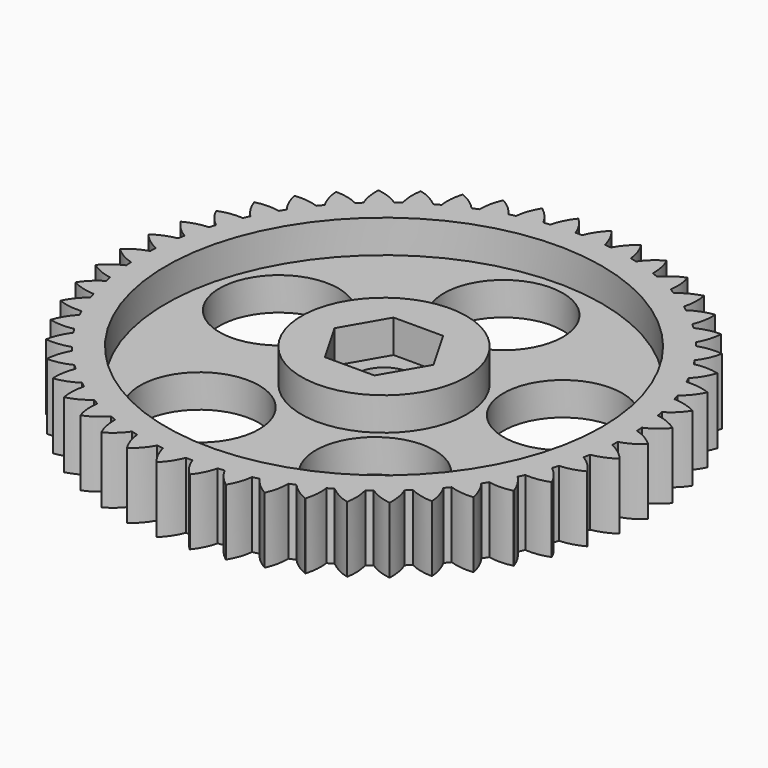
from build123d import *

# Parameters (mm, degrees)
F0_R      = 40
F1_DEPTH  = 5
F2_R      = 40
F2_R_2    = 33
F3_DEPTH  = 5
F4_R      = 4.25
F5_DEPTH  = 5
F6_R      = 12.5
F7_DEPTH  = 5
F8_R      = 9
F9_DEPTH  = 5
F11_DEPTH = 10
F12_COUNT = 50


with BuildPart() as f1:
    # F0 (on Top) → F1 (new body)
    with BuildSketch(Plane.XY):
        Circle(F0_R)
    extrude(amount=F1_DEPTH)

    # F2 (on face) → F3 (join)
    with BuildSketch(Plane.XY.offset(5)):
        Circle(F2_R)
        Circle(F2_R_2, mode=Mode.SUBTRACT)
    extrude(amount=F3_DEPTH)

    # F4 (on face) → F5 (cut, through all)
    with BuildSketch(Plane.XY.offset(5)):
        Circle(F4_R)
    extrude(amount=-F5_DEPTH, mode=Mode.SUBTRACT)

    # F6 (on face) → F7 (join)
    with BuildSketch(Plane.XY.offset(5)):
        Circle(F6_R)
        Polygon((-3.7527767497, -6.5), (-7.5055534995, 0), (-3.7527767497, 6.5), (3.7527767497, 6.5), (7.5055534995, 0), (3.7527767497, -6.5), align=None, mode=Mode.SUBTRACT)
    extrude(amount=F7_DEPTH)

    # F8 (on face) → F9 (cut, through all)
    with BuildSketch(Plane.XY.offset(5)):
        with Locations((0, 22.6054340601)):
            Circle(F8_R)
        with Locations((-21.4990453665, 6.9854632898)):
            Circle(F8_R)
        with Locations((-13.2871407622, -18.2881803198)):
            Circle(F8_R)
        with Locations((13.2871407622, -18.2881803198)):
            Circle(F8_R)
        with Locations((21.4990453665, 6.9854632898)):
            Circle(F8_R)
    extrude(amount=-F9_DEPTH, mode=Mode.SUBTRACT)

    # F10 (on face) → F11 (cut, through all)
    with BuildSketch(Plane.XY.offset(10)):
        with BuildLine():
            ThreePointArc((0.5, 36.8966123106), (1.3263189469, 38.5240288124), (2.5, 39.9217985567))
            ThreePointArc((2.5, 39.9217985567), (0, 40), (-2.5, 39.9217985567))
            ThreePointArc((-2.5, 39.9217985567), (-1.3263189469, 38.5240288124), (-0.5, 36.8966123106))
            ThreePointArc((-0.5, 36.8966123106), (0, 36.9), (0.5, 36.8966123106))
        make_face()
    f11 = extrude(amount=-F11_DEPTH, mode=Mode.SUBTRACT)

    # F12: F11 ×50 about axis
    f12_axis = Axis((0, 0, 0), (0, 0, -1))
    for i in range(1, F12_COUNT):
        add(f11.rotate(f12_axis, i * 360 / F12_COUNT), mode=Mode.SUBTRACT)


solid = f1.part
